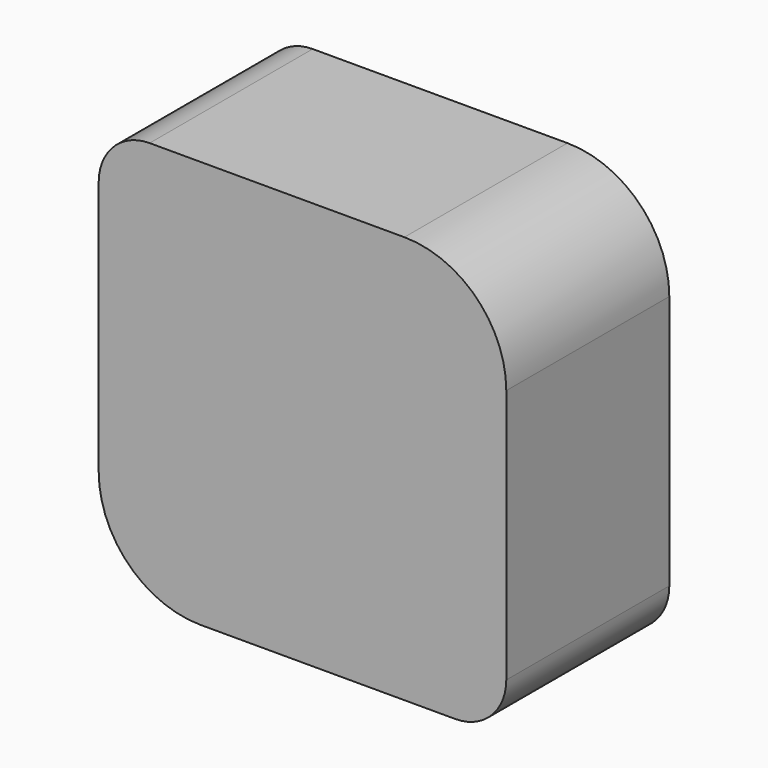
from build123d import *

# Parameters (mm, degrees)
F1_DEPTH = 101.6


with BuildPart() as f1:
    # F0 (on Front) → F1 (new body)
    with BuildSketch(Plane.XZ):
        with BuildLine():
            Line((50.8, 101.6), (-76.2, 101.6))
            ThreePointArc((-76.2, 101.6), (-94.160512, 94.160512), (-101.6, 76.2))
            Line((-101.6, 76.2), (-101.6, -50.8))
            ThreePointArc((-101.6, -50.8), (-86.721024, -86.721024), (-50.8, -101.6))
            Line((-50.8, -101.6), (76.2, -101.6))
            ThreePointArc((76.2, -101.6), (94.160512, -94.160512), (101.6, -76.2))
            Line((101.6, -76.2), (101.6, 50.8))
            ThreePointArc((101.6, 50.8), (86.721024, 86.721024), (50.8, 101.6))
        make_face()
        with BuildLine():
            Line((50.8, 101.6), (-76.2, 101.6))
            ThreePointArc((-76.2, 101.6), (-94.160512, 94.160512), (-101.6, 76.2))
            Line((-101.6, 76.2), (-101.6, -50.8))
            ThreePointArc((-101.6, -50.8), (-86.721024, -86.721024), (-50.8, -101.6))
            Line((-50.8, -101.6), (76.2, -101.6))
            ThreePointArc((76.2, -101.6), (94.160512, -94.160512), (101.6, -76.2))
            Line((101.6, -76.2), (101.6, 50.8))
            ThreePointArc((101.6, 50.8), (86.721024, 86.721024), (50.8, 101.6))
        make_face()
    extrude(amount=F1_DEPTH)


solid = f1.part
